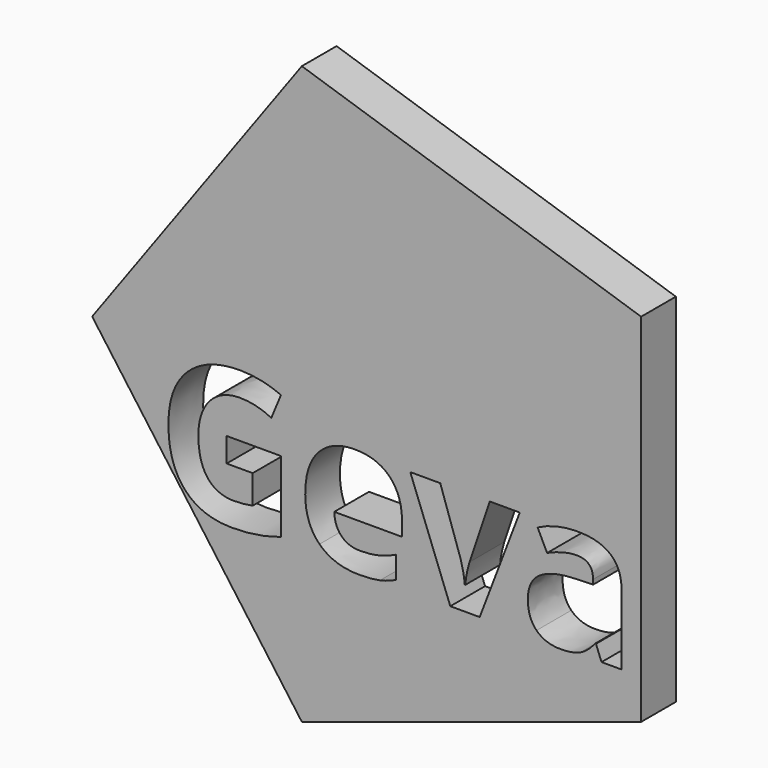
from build123d import *

# Parameters (mm, degrees)
F1_DEPTH = 25.4


with BuildPart() as f1:
    # F0 (on Front) → F1 (new body)
    with BuildSketch(Plane.XZ):
        Polygon((-69.6489065795, 213.2151687083), (-192.2873854637, 44.417783618), (-69.6489065795, -124.3796014723), (128.7843205837, -59.9047375799), (128.7843205837, 148.7403048159), align=None)
        with BuildLine():
            Line((-113.6227780141, -5.6910817596), (-113.6227780141, 8.5026193143))
            Line((-113.6227780141, 8.5026193143), (-81.7353182283, 8.5026193143))
            Line((-81.7353182283, 8.5026193143), (-81.7353182283, -33.1638959821))
            add(Edge.make_bspline(
                [(-81.7353182283, -33.1638959821), (-89.4917273654, -35.6966010064), (-96.333548577, -36.7167183079)],
                knots=[0, 0, 0, 1, 1, 1], degree=2))
            add(Edge.make_bspline(
                [(-96.333548577, -36.7167183079), (-103.1753697886, -37.7368356094), (-110.3161908989, -37.7368356094)],
                knots=[0, 0, 0, 1, 1, 1], degree=2))
            add(Edge.make_bspline(
                [(-110.3161908989, -37.7368356094), (-128.5024200321, -37.7368356094), (-138.0967991348, -27.0431921732)],
                knots=[0, 0, 0, 1, 1, 1], degree=2))
            add(Edge.make_bspline(
                [(-138.0967991348, -27.0431921732), (-147.6911782374, -16.3495487371), (-147.6911782374, 3.665856247)],
                knots=[0, 0, 0, 1, 1, 1], degree=2))
            add(Edge.make_bspline(
                [(-147.6911782374, 3.665856247), (-147.6911782374, 23.1184378924), (-136.5578290679, 33.9967577365)],
                knots=[0, 0, 0, 1, 1, 1], degree=2))
            add(Edge.make_bspline(
                [(-136.5578290679, 33.9967577365), (-125.4244798984, 44.8750775807), (-105.708074813, 44.8750775807)],
                knots=[0, 0, 0, 1, 1, 1], degree=2))
            add(Edge.make_bspline(
                [(-105.708074813, 44.8750775807), (-93.3259613606, 44.8750775807), (-81.8408476043, 39.9327851374)],
                knots=[0, 0, 0, 1, 1, 1], degree=2))
            Line((-81.8408476043, 39.9327851374), (-87.5042574504, 26.3019074021))
            add(Edge.make_bspline(
                [(-87.5042574504, 26.3019074021), (-96.2983721183, 30.6989647361), (-105.813604189, 30.6989647361)],
                knots=[0, 0, 0, 1, 1, 1], degree=2))
            add(Edge.make_bspline(
                [(-105.813604189, 30.6989647361), (-116.8590122118, 30.6989647361), (-123.5073629008, 23.2767319564)],
                knots=[0, 0, 0, 1, 1, 1], degree=2))
            add(Edge.make_bspline(
                [(-123.5073629008, 23.2767319564), (-130.1557135897, 15.8544991767), (-130.1557135897, 3.3316798896)],
                knots=[0, 0, 0, 1, 1, 1], degree=2))
            add(Edge.make_bspline(
                [(-130.1557135897, 3.3316798896), (-130.1557135897, -9.7539627362), (-124.8000977569, -16.6485486358)],
                knots=[0, 0, 0, 1, 1, 1], degree=2))
            add(Edge.make_bspline(
                [(-124.8000977569, -16.6485486358), (-119.4444819242, -23.5431345354), (-109.2257206801, -23.5431345354)],
                knots=[0, 0, 0, 1, 1, 1], degree=2))
            add(Edge.make_bspline(
                [(-109.2257206801, -23.5431345354), (-103.878898962, -23.5431345354), (-98.3913714093, -22.4526643166)],
                knots=[0, 0, 0, 1, 1, 1], degree=2))
            Line((-98.3913714093, -22.4526643166), (-98.3913714093, -5.6910817596))
            Line((-98.3913714093, -5.6910817596), (-113.6227780141, -5.6910817596))
        make_face(mode=Mode.SUBTRACT)
        with BuildLine():
            add(Edge.make_bspline(
                [(-23.9228084016, -36.6639536199), (-28.917865533, -37.7368356094), (-36.1290395607, -37.7368356094)],
                knots=[0, 0, 0, 1, 1, 1], degree=2))
            add(Edge.make_bspline(
                [(-36.1290395607, -37.7368356094), (-50.9559168907, -37.7368356094), (-59.3103258252, -29.5407207389)],
                knots=[0, 0, 0, 1, 1, 1], degree=2))
            add(Edge.make_bspline(
                [(-59.3103258252, -29.5407207389), (-67.6647347597, -21.3446058685), (-67.6647347597, -6.341846245)],
                knots=[0, 0, 0, 1, 1, 1], degree=2))
            add(Edge.make_bspline(
                [(-67.6647347597, -6.341846245), (-67.6647347597, 9.1006191118), (-59.9435020813, 17.5341750783)],
                knots=[0, 0, 0, 1, 1, 1], degree=2))
            add(Edge.make_bspline(
                [(-59.9435020813, 17.5341750783), (-52.2222694029, 25.9677310448), (-38.5913916677, 25.9677310448)],
                knots=[0, 0, 0, 1, 1, 1], degree=2))
            add(Edge.make_bspline(
                [(-38.5913916677, 25.9677310448), (-25.5761019592, 25.9677310448), (-18.3209573582, 18.5542923797)],
                knots=[0, 0, 0, 1, 1, 1], degree=2))
            add(Edge.make_bspline(
                [(-18.3209573582, 18.5542923797), (-11.0658127572, 11.1408537147), (-11.0658127572, -1.9447889111)],
                knots=[0, 0, 0, 1, 1, 1], degree=2))
            Line((-11.0658127572, -1.9447889111), (-11.0658127572, -10.0881390936))
            Line((-11.0658127572, -10.0881390936), (-50.6920934507, -10.0881390936))
            add(Edge.make_bspline(
                [(-50.6920934507, -10.0881390936), (-50.4106817813, -17.2289602039), (-46.4533301808, -21.2390764924)],
                knots=[0, 0, 0, 1, 1, 1], degree=2))
            add(Edge.make_bspline(
                [(-46.4533301808, -21.2390764924), (-42.4959785802, -25.249192781), (-35.3551574699, -25.249192781)],
                knots=[0, 0, 0, 1, 1, 1], degree=2))
            add(Edge.make_bspline(
                [(-35.3551574699, -25.249192781), (-29.7972769998, -25.249192781), (-24.8549845564, -24.0971637595)],
                knots=[0, 0, 0, 1, 1, 1], degree=2))
            add(Edge.make_bspline(
                [(-24.8549845564, -24.0971637595), (-19.9126921131, -22.945134738), (-14.5306939363, -20.4124297137)],
                knots=[0, 0, 0, 1, 1, 1], degree=2))
            Line((-14.5306939363, -20.4124297137), (-14.5306939363, -33.3925429635))
            add(Edge.make_bspline(
                [(-14.5306939363, -33.3925429635), (-18.9277512703, -35.5910716304), (-23.9228084016, -36.6639536199)],
                knots=[0, 0, 0, 1, 1, 1], degree=2))
        make_face(mode=Mode.SUBTRACT)
        with BuildLine():
            Line((34.3821718464, -36.6287771612), (17.180883556, -36.6287771612))
            Line((17.180883556, -36.6287771612), (-6.2290496899, 24.8244961379))
            Line((-6.2290496899, 24.8244961379), (11.3064149579, 24.8244961379))
            Line((11.3064149579, 24.8244961379), (23.1784697595, -10.1936684696))
            add(Edge.make_bspline(
                [(23.1784697595, -10.1936684696), (25.1483514451, -16.8420191585), (25.6584100959, -22.7692524447)],
                knots=[0, 0, 0, 1, 1, 1], degree=2))
            Line((25.6584100959, -22.7692524447), (25.9749982239, -22.7692524447))
            add(Edge.make_bspline(
                [(25.9749982239, -22.7692524447), (26.2564098933, -17.4927836439), (28.4549385603, -10.1936684696)],
                knots=[0, 0, 0, 1, 1, 1], degree=2))
            Line((28.4549385603, -10.1936684696), (40.2742286739, 24.8244961379))
            Line((40.2742286739, 24.8244961379), (57.8096933217, 24.8244961379))
            Line((57.8096933217, 24.8244961379), (34.3821718464, -36.6287771612))
        make_face(mode=Mode.SUBTRACT)
        with BuildLine():
            Line((117.3282613939, -36.6287771612), (105.6320888856, -36.6287771612))
            Line((105.6320888856, -36.6287771612), (102.3782664585, -28.2743682268))
            Line((102.3782664585, -28.2743682268), (101.9385607251, -28.2743682268))
            add(Edge.make_bspline(
                [(101.9385607251, -28.2743682268), (97.7173856845, -33.6036017155), (93.2323872039, -35.6702186624)],
                knots=[0, 0, 0, 1, 1, 1], degree=2))
            add(Edge.make_bspline(
                [(93.2323872039, -35.6702186624), (88.7473887233, -37.7368356094), (81.5538029249, -37.7368356094)],
                knots=[0, 0, 0, 1, 1, 1], degree=2))
            add(Edge.make_bspline(
                [(81.5538029249, -37.7368356094), (72.7069235691, -37.7368356094), (67.623925291, -32.6714255607)],
                knots=[0, 0, 0, 1, 1, 1], degree=2))
            add(Edge.make_bspline(
                [(67.623925291, -32.6714255607), (62.540927013, -27.606015512), (62.540927013, -18.2666657347)],
                knots=[0, 0, 0, 1, 1, 1], degree=2))
            add(Edge.make_bspline(
                [(62.540927013, -18.2666657347), (62.540927013, -8.487610224), (69.3827482246, -3.8443176794)],
                knots=[0, 0, 0, 1, 1, 1], degree=2))
            add(Edge.make_bspline(
                [(69.3827482246, -3.8443176794), (76.2245694362, 0.7989748653), (90.0137412355, 1.2914452867)],
                knots=[0, 0, 0, 1, 1, 1], degree=2))
            Line((90.0137412355, 1.2914452867), (100.6897964423, 1.6256216441))
            Line((100.6897964423, 1.6256216441), (100.6897964423, 4.3166207324))
            add(Edge.make_bspline(
                [(100.6897964423, 4.3166207324), (100.6897964423, 13.6559705097), (91.1217996836, 13.6559705097)],
                knots=[0, 0, 0, 1, 1, 1], degree=2))
            add(Edge.make_bspline(
                [(91.1217996836, 13.6559705097), (83.7523315919, 13.6559705097), (73.7973937879, 9.2061484878)],
                knots=[0, 0, 0, 1, 1, 1], degree=2))
            Line((73.7973937879, 9.2061484878), (68.2571015471, 20.53296818))
            add(Edge.make_bspline(
                [(68.2571015471, 20.53296818), (78.8628038366, 26.0908486501), (91.772564169, 26.0908486501)],
                knots=[0, 0, 0, 1, 1, 1], degree=2))
            add(Edge.make_bspline(
                [(91.772564169, 26.0908486501), (104.1370893921, 26.0908486501), (110.732675393, 20.7000563587)],
                knots=[0, 0, 0, 1, 1, 1], degree=2))
            add(Edge.make_bspline(
                [(110.732675393, 20.7000563587), (117.3282613939, 15.3092640673), (117.3282613939, 4.3166207324)],
                knots=[0, 0, 0, 1, 1, 1], degree=2))
            Line((117.3282613939, 4.3166207324), (117.3282613939, -36.6287771612))
        make_face(mode=Mode.SUBTRACT)
    extrude(amount=F1_DEPTH)


solid = f1.part
